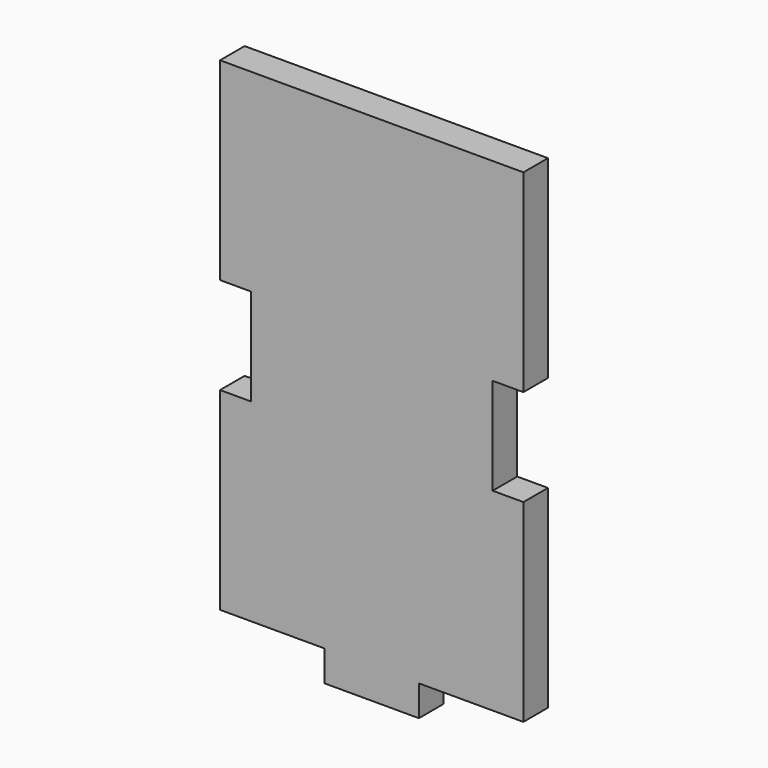
from build123d import *

# Parameters (mm, degrees)
F0_W     = 6.35
F0_H     = 40
F0_W_2   = 19.5
F0_H_2   = 6.35
F1_DEPTH = 6.35


with BuildPart() as f1:
    # F0 (on Front) → F1 (new body)
    with BuildSketch(Plane.XZ):
        Polygon((25, 10), (25, 50), (-25, 50), (-25, 10), (-25, -10), (-25, -50), (-9.75, -50), (9.75, -50), (25, -50), (25, -10), align=None)
        with Locations((28.175, 30)):
            Rectangle(F0_W, F0_H)
        with Locations((-28.175, 30)):
            Rectangle(F0_W, F0_H)
        with Locations((28.175, -30)):
            Rectangle(F0_W, F0_H)
        with Locations((-28.175, -30)):
            Rectangle(F0_W, F0_H)
        with Locations((0, -53.175)):
            Rectangle(F0_W_2, F0_H_2)
    extrude(amount=F1_DEPTH)


solid = f1.part
